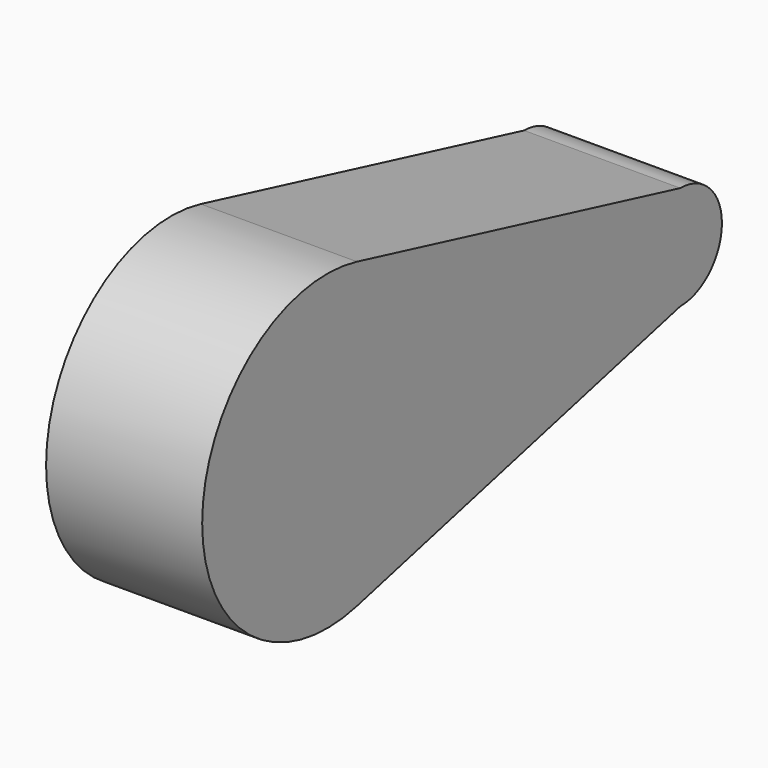
from build123d import *

# Parameters (mm, degrees)
F1_DEPTH = 30


with BuildPart() as f1:
    # F0 (on Right) → F1 (new body)
    with BuildSketch(Plane.YZ):
        with BuildLine():
            ThreePointArc((-37.046180943, -55.3226507139), (-20.6061644078, -44.6968900375), (-14.2198155139, -26.1929585246))
            ThreePointArc((-14.2198155139, -26.1929585246), (-20.6061644078, -7.6890270116), (-37.046180943, 2.9367336647))
            ThreePointArc((-37.046180943, 2.9367336647), (-74.2198155139, -26.1929585246), (-37.046180943, -55.3226507139))
        make_face()
        with BuildLine():
            ThreePointArc((-37.046180943, 2.9367336647), (-20.6061644078, -7.6890270116), (-14.2198155139, -26.1929585246))
            ThreePointArc((-14.2198155139, -26.1929585246), (-20.6061644078, -44.6968900375), (-37.046180943, -55.3226507139))
            Line((-37.046180943, -55.3226507139), (40.6329982284, -36.1929585246))
            ThreePointArc((40.6329982284, -36.1929585246), (30.6329982284, -26.1929585246), (40.6329982284, -16.1929585246))
            Line((40.6329982284, -16.1929585246), (-37.046180943, 2.9367336647))
        make_face()
        with BuildLine():
            ThreePointArc((50.6329982284, -26.1929585246), (47.7040660403, -19.1218907127), (40.6329982284, -16.1929585246))
            ThreePointArc((40.6329982284, -16.1929585246), (30.6329982284, -26.1929585246), (40.6329982284, -36.1929585246))
            ThreePointArc((40.6329982284, -36.1929585246), (47.7040660403, -33.2640263364), (50.6329982284, -26.1929585246))
        make_face()
    extrude(amount=F1_DEPTH)


solid = f1.part
